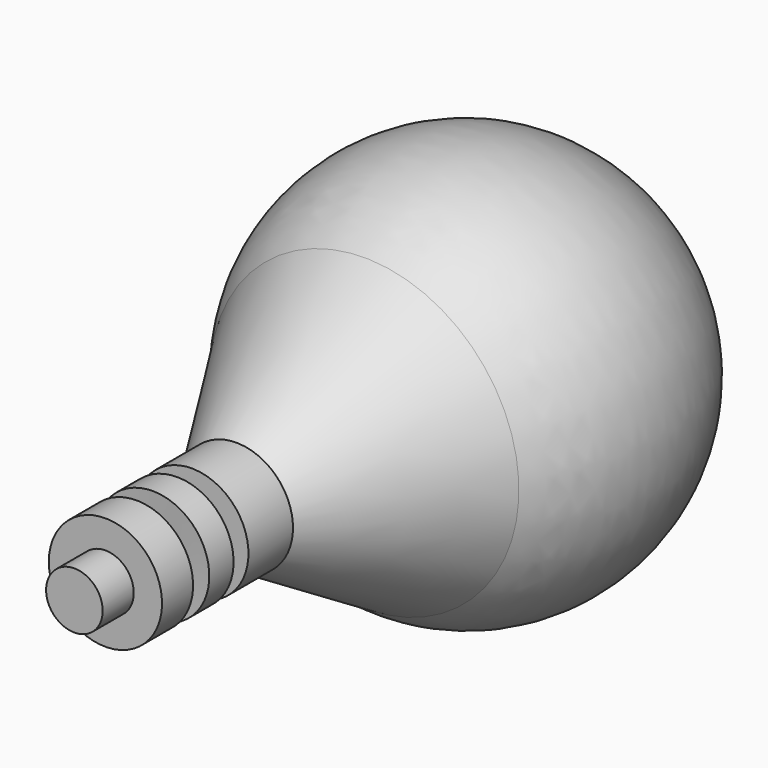
from build123d import *


with BuildPart() as f1:
    # F0 (on Top) → F1 (revolve)
    with BuildSketch(Plane.XY):
        with BuildLine():
            Line((0, -26.999479), (0, 35.442319))
            ThreePointArc((0, 35.442319), (-23.383754, 20.934033), (-19.911851, -6.364982))
            Line((-19.911851, -6.364982), (-7.295921, -26.999479))
            Line((-7.295921, -26.999479), (0, -26.999479))
        make_face()
        Polygon((0, -40.053513), (0, -26.999479), (-7.295921, -26.999479), (-7.295921, -34.179199), (-3.64796, -34.179199), (-3.64796, -36.572438), (-7.295921, -36.572438), (-7.295921, -40.488649), (-3.64796, -40.271081), (-3.64796, -43.099456), (-7.295921, -43.099456), (-7.295921, -48.103501), (-3.64796, -48.103501), (-3.64796, -52.454844), (-3.64796, -53.107547), (0, -53.107547), align=None)
    revolve(axis=Axis((0, -2.305597, 0), (0, 1, 0)))


solid = f1.part
